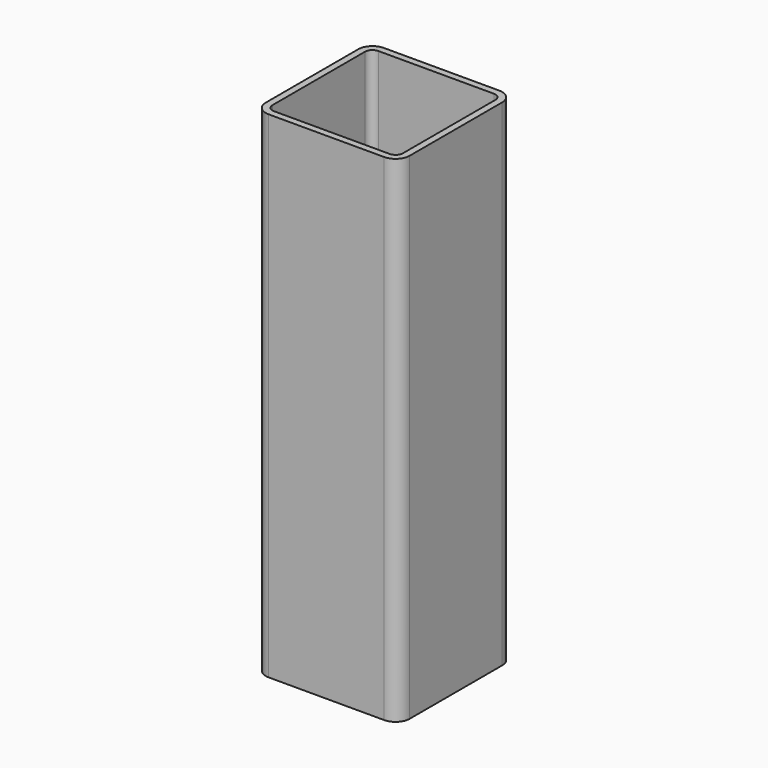
from build123d import *

# Parameters (mm, degrees)
F1_DEPTH = 175


with BuildPart() as f1:
    # F0 (on Top) → F1 (new body, symmetric)
    with BuildSketch(Plane.XY):
        with BuildLine():
            Line((40.8, 50.8), (-40.8, 50.8))
            ThreePointArc((-40.8, 50.8), (-47.871068, 47.871068), (-50.8, 40.8))
            Line((-50.8, 40.8), (-50.8, -40.8))
            ThreePointArc((-50.8, -40.8), (-47.871068, -47.871068), (-40.8, -50.8))
            Line((-40.8, -50.8), (40.8, -50.8))
            ThreePointArc((40.8, -50.8), (47.871068, -47.871068), (50.8, -40.8))
            Line((50.8, -40.8), (50.8, 40.8))
            ThreePointArc((50.8, 40.8), (47.871068, 47.871068), (40.8, 50.8))
        make_face()
        with BuildLine():
            ThreePointArc((-46.0375, 40.8), (-44.503472, 44.503472), (-40.8, 46.0375))
            Line((-40.8, 46.0375), (40.8, 46.0375))
            ThreePointArc((40.8, 46.0375), (44.503472, 44.503472), (46.0375, 40.8))
            Line((46.0375, 40.8), (46.0375, -40.8))
            ThreePointArc((46.0375, -40.8), (44.503472, -44.503472), (40.8, -46.0375))
            Line((40.8, -46.0375), (-40.8, -46.0375))
            ThreePointArc((-40.8, -46.0375), (-44.503472, -44.503472), (-46.0375, -40.8))
            Line((-46.0375, -40.8), (-46.0375, 40.8))
        make_face(mode=Mode.SUBTRACT)
    extrude(amount=F1_DEPTH, both=True)


solid = f1.part
